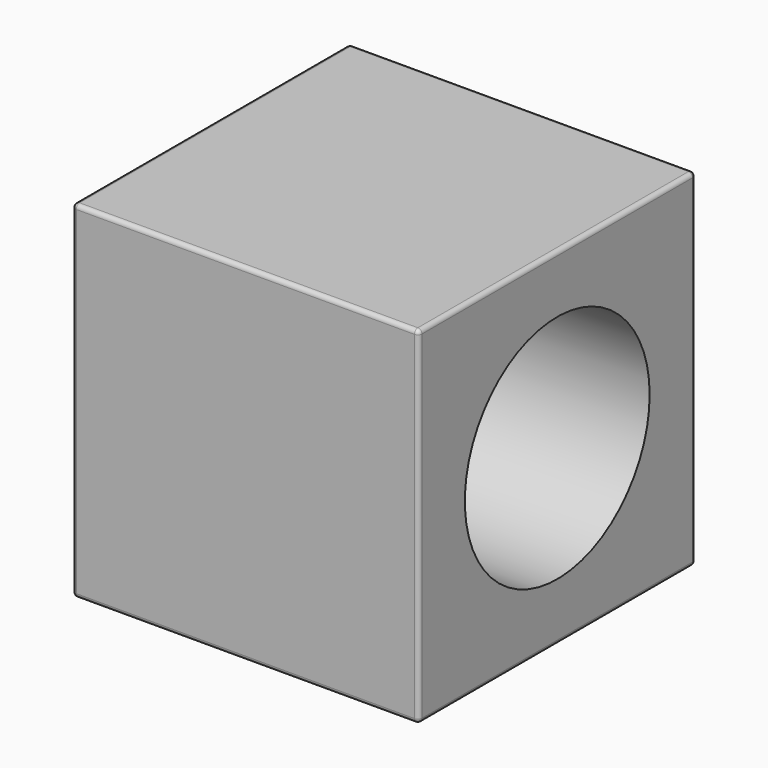
from build123d import *

# Parameters (mm, degrees)
F0_W     = 100
F0_H     = 100
F1_DEPTH = 100
F3_R     = 1.2
F4_R     = 33.33333
F5_DEPTH = 100.001


with BuildPart() as f1:
    # F0 (on Top) → F1 (new body)
    with BuildSketch(Plane.XY):
        Rectangle(F0_W, F0_H)
    extrude(amount=F1_DEPTH)

    # F3
    f3_edges = [f1.edges().sort_by_distance(p)[0] for p in [
        (-50, 0, 100),
        (0, 50, 100),
        (50, 0, 100),
        (0, -50, 100),
        (-50, -50, 50),
        (-50, 50, 50),
        (50, -50, 50),
        (50, 50, 50),
        (50, 0, 0),
        (0, -50, 0),
        (-50, 0, 0),
        (0, 50, 0),
    ]]
    fillet(f3_edges, radius=F3_R)

    # F4 (on face) → F5 (cut, through all)
    with BuildSketch(Plane.YZ.offset(50)):
        with Locations((0, 50)):
            Circle(F4_R)
    extrude(amount=-F5_DEPTH, mode=Mode.SUBTRACT)


solid = f1.part
